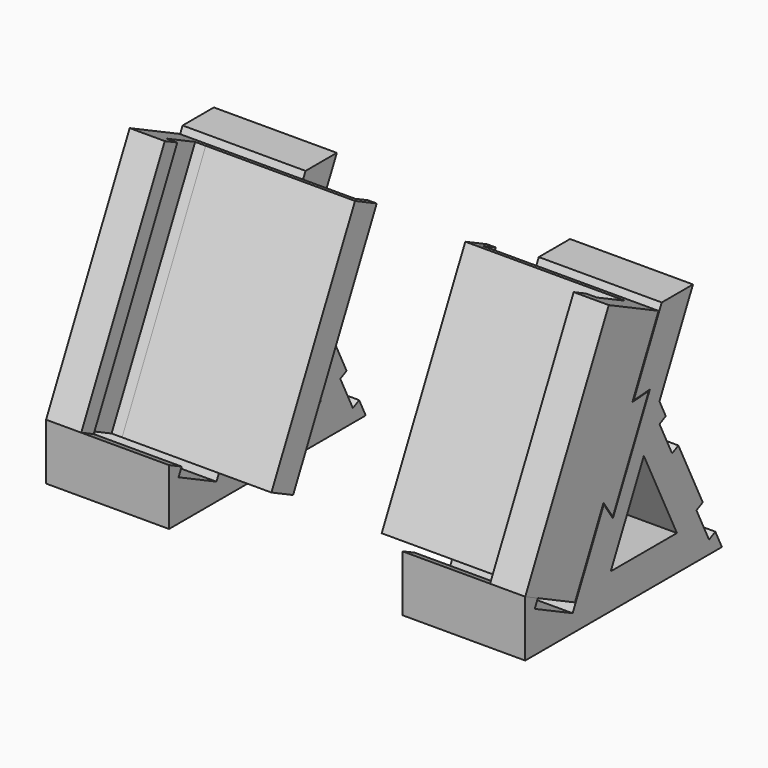
from build123d import *

# Parameters (mm, degrees)
F0_W      = 44.45
F0_H      = 88.9
F1_DEPTH  = 44.45
F3_DEPTH  = 44.45
F5_DEPTH  = 12.7
F7_DEPTH  = 50.8
F9_DEPTH  = 3.175
F10_W     = 3.81
F10_H     = 14.2875
F11_DEPTH = 86.1683560435


with BuildPart() as f1:
    # F0 (on Front) → F1 (new body, symmetric)
    with BuildSketch(Plane.XZ):
        with Locations((64.3862443834, 44.45)):
            Rectangle(F0_W, F0_H)
    extrude(amount=F1_DEPTH, both=True)

    # F2 (on face) → F3 (cut, through all)
    with BuildSketch(Plane.YZ.offset(86.6112443834)):
        Polygon((-44.45, 69.6656666873), (-44.45, 20.3382982254), (-38.742657806, 17.5546414433), (-21.620631224, 9.203671097), (-8.9292081803, 35.2249445186), (-2.1853828265, 49.0518355485), align=None)
        Polygon((-21.620631224, 9.203671097), (-38.742657806, 17.5546414433), (-40.1344861971, 14.7009703463), (-23.0124596151, 6.35), align=None)
        Polygon((-44.45, 88.9), (-44.45, 69.6656666873), (-2.1853828265, 49.0518355485), (4.5584425274, 62.8787265784), (17.2498655711, 88.9), align=None)
        Polygon((3.5219593675, 46.2681787664), (-2.1853828265, 49.0518355485), (-8.9292081803, 35.2249445186), (-4.8290109788, 29.1461521844), align=None)
        Polygon((4.5584425274, 62.8787265784), (-2.1853828265, 49.0518355485), (3.5219593675, 46.2681787664), (11.8729297139, 63.3902053484), align=None)
        Polygon((9.1702192238, 43.3633852402), (-5.7853130336, 12.7), (24.1257514812, 12.7), align=None)
        Polygon((31.3799102151, 88.9), (16.2352415458, 57.8488276479), (19.0966473732, 51.9820762877), (24.7753072087, 40.3390982119), (30.3426207729, 28.9244138239), (44.45, 35.8050424123), (44.45, 88.9), align=None)
        Polygon((24.7753072087, 40.3390982119), (19.0966473732, 51.9820762877), (16.2429762762, 50.5902478967), (21.9216361117, 38.9472698209), align=None)
        Polygon((44.45, 0), (44.45, 35.8050424123), (30.3426207729, 28.9244138239), (35.7985880658, 17.7380231237), (41.4772479013, 6.0950450479), align=None)
        Polygon((41.4772479013, 6.0950450479), (35.7985880658, 17.7380231237), (32.9449169688, 16.3461947327), (38.6235768043, 4.7032166569), align=None)
    extrude(amount=-F3_DEPTH, mode=Mode.SUBTRACT)


with BuildPart() as f5:
    # F4 (on face) → F5 (new body)
    with BuildSketch(Plane.YZ.offset(86.6112443834)):
        Polygon((-4.8644472675, 29.6529147219), (11.451778627, 63.1061353534), (3.9910016968, 62.5844270081), (-9.046648413, 35.8532829028), align=None)
        Polygon((-9.046648413, 35.8532829028), (3.9910016968, 62.5844270081), (15.8106493001, 86.8182958952), (-6.6762789443, 97.7859036168), (-44.45, 20.3382982254), (-21.9630717556, 9.3706905039), align=None)
    extrude(amount=-F5_DEPTH)

    # F6 (on face) → F7 (join)
    with BuildSketch(Plane(origin=(73.9112443834, 0, 0), x_dir=(0, -1, 0), z_dir=(-1, 0, 0))):
        Polygon((-11.8155097643, 88.7668556427), (-15.8106493001, 86.8182958952), (-3.9910016968, 62.5844270081), (-11.451778627, 63.1061353534), (4.8644472675, 29.6529147219), (9.046648413, 35.8532829028), (21.9630717556, 9.3706905039), (25.9582112914, 11.3192502514), align=None)
    extrude(amount=F7_DEPTH)

    # F8 (on face) → F9 (join)
    with BuildSketch(Plane(origin=(23.1112443834, 0, 0), x_dir=(0, -1, 0), z_dir=(-1, 0, 0))):
        Polygon((25.9582112914, 11.3192502514), (-11.8155097643, 88.7668556427), (-21.632138338, 83.9789659775), (16.1415827178, 6.5313605862), align=None)
    extrude(amount=F9_DEPTH)

    # F10 (on face) → F11 (cut, through all)
    with BuildSketch(Plane(origin=(0, 37.2451962007, 76.3639688507), x_dir=(1, 0, 0), z_dir=(0, 0.4383711468, 0.8987940463))):
        with Locations((75.8162443834, -35.4368684748)):
            Rectangle(F10_W, F10_H)
    extrude(amount=-F11_DEPTH, mode=Mode.SUBTRACT)


with BuildPart() as f12_1:
    # F12: instance of F1
    add(f1.part.mirror(Plane.YZ))


with BuildPart() as f12_2:
    # F12: instance of F5
    add(f5.part.mirror(Plane.YZ))


solid = Compound([f1.part, f5.part, f12_1.part, f12_2.part])
